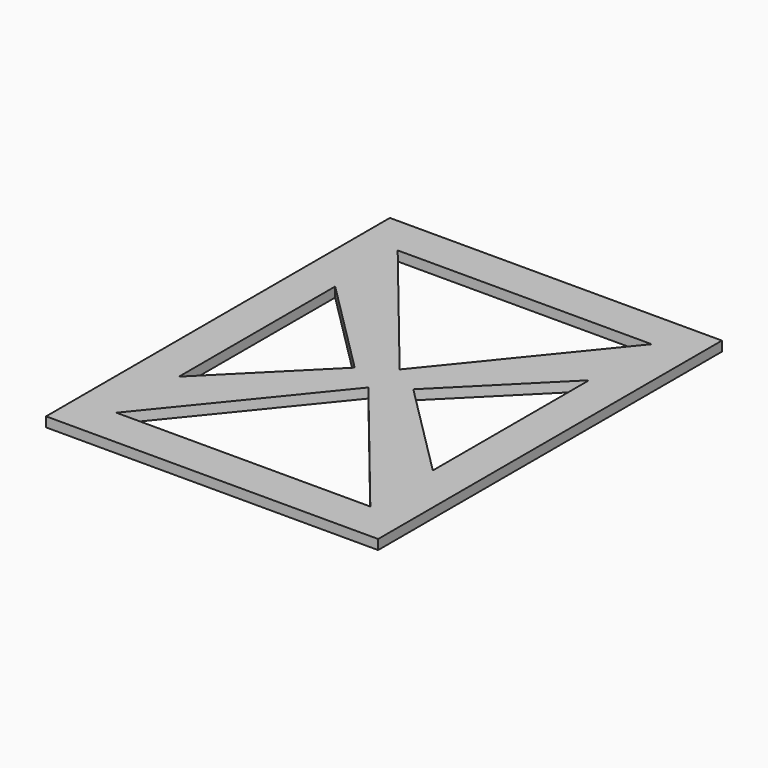
from build123d import *

# Parameters (mm, degrees)
F0_W     = 215.9
F0_H     = 279.4
F1_DEPTH = 6.35


with BuildPart() as f1:
    # F0 (on Top) → F1 (new body)
    with BuildSketch(Plane.XY):
        with Locations((112.702514, 139.7)):
            Rectangle(F0_W, F0_H)
        Polygon((30.152514, 25.4), (112.702514, 127), (195.252514, 25.4), align=None, mode=Mode.SUBTRACT)
        Polygon((30.152514, 76.2), (30.152514, 203.2), (93.652514, 139.7), align=None, mode=Mode.SUBTRACT)
        Polygon((112.702514, 152.4), (30.152514, 254), (195.252514, 254), align=None, mode=Mode.SUBTRACT)
        Polygon((195.252514, 76.2), (131.752514, 139.7), (195.252514, 203.2), align=None, mode=Mode.SUBTRACT)
    extrude(amount=F1_DEPTH)


solid = f1.part
